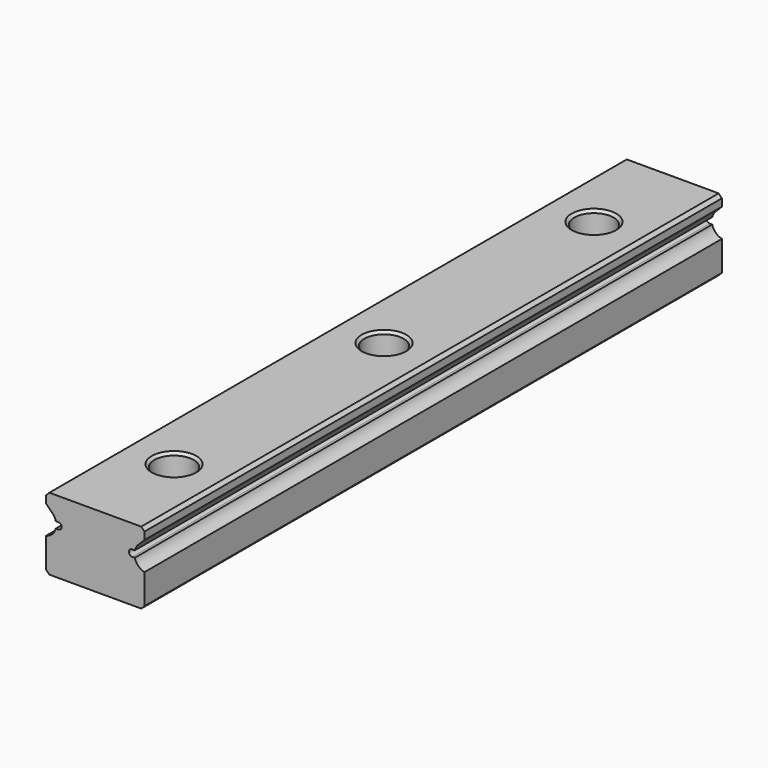
from build123d import *

# Parameters (mm, degrees)
PAD_DEPTH            = 55
SKETCH015_R          = 1.75
POCKET002_DEPTH      = 7.001
POCKET002_DEPTH_BACK = 4.001
SKETCH016_R          = 3
POCKET003_DEPTH      = 4.5
CHAMFER002_SIZE      = 0.4


with BuildPart() as part:
    # Sketch014 → Pad (new body, symmetric)
    with BuildSketch(Plane.XZ):
        with BuildLine():
            ThreePointArc((-5.623508, -0.5), (-5.123508, 0), (-5.623508, 0.5))
            Line((-6.023508, 0.5), (-5.623508, 0.5))
            ThreePointArc((-6.023508, 0.5), (-6.223408, 0.992092), (-6.545786, 1.414214))
            Line((-7.5, 2.368427), (-6.545786, 1.414214))
            Line((-7.5, 3.5), (-7.5, 2.368427))
            Line((-7, 4), (-7.5, 3.5))
            Line((7, 4), (-7, 4))
            Line((7.5, 3.5), (7, 4))
            Line((7.5, 2.368427), (7.5, 3.5))
            Line((6.545786, 1.414214), (7.5, 2.368427))
            ThreePointArc((6.545786, 1.414214), (6.223408, 0.992092), (6.023508, 0.5))
            Line((5.623508, 0.5), (6.023508, 0.5))
            ThreePointArc((5.623508, 0.5), (5.123508, 0), (5.623508, -0.5))
            Line((5.623508, -0.5), (6.023508, -0.5))
            ThreePointArc((6.023508, -0.5), (6.560429, -1.428706), (7.5, -1.946381))
            Line((7.5, -6.5), (7.5, -1.946381))
            Line((7, -7), (7.5, -6.5))
            Line((-7, -7), (7, -7))
            Line((-7.5, -6.5), (-7, -7))
            Line((-7.5, -1.946381), (-7.5, -6.5))
            ThreePointArc((-7.5, -1.946381), (-6.560429, -1.428706), (-6.023508, -0.5))
            Line((-6.023508, -0.5), (-5.623508, -0.5))
        make_face()
    extrude(amount=PAD_DEPTH, both=True)

    # Sketch015 → Pocket002 (cut, two sides)
    with BuildSketch(Plane.XY) as pocket002_sk:
        with Locations((0, -40)):
            Circle(SKETCH015_R)
        Circle(SKETCH015_R)
        with Locations((0, 40)):
            Circle(SKETCH015_R)
    extrude(amount=-POCKET002_DEPTH, mode=Mode.SUBTRACT)
    extrude(pocket002_sk.sketch, amount=POCKET002_DEPTH_BACK, mode=Mode.SUBTRACT)

    # Sketch016 (on Face13 of Pocket002) → Pocket003 (cut)
    with BuildSketch(Plane(origin=(0, 0, 4), x_dir=(-1, 0, 0), z_dir=(0, 0, 1))):
        with Locations((0, 40)):
            Circle(SKETCH016_R)
        Circle(SKETCH016_R)
        with Locations((0, -40)):
            Circle(SKETCH016_R)
    extrude(amount=-POCKET003_DEPTH, mode=Mode.SUBTRACT)

    # Chamfer002
    chamfer002_edges = [part.edges().sort_by_distance(p)[0] for p in [
        (-1.75, -40, -7),
        (-1.75, 0, -7),
        (-1.75, 40, -7),
        (3, 40, 4),
        (3, 0, 4),
        (3, -40, 4),
    ]]
    chamfer(chamfer002_edges, length=CHAMFER002_SIZE)


solid = part.part
